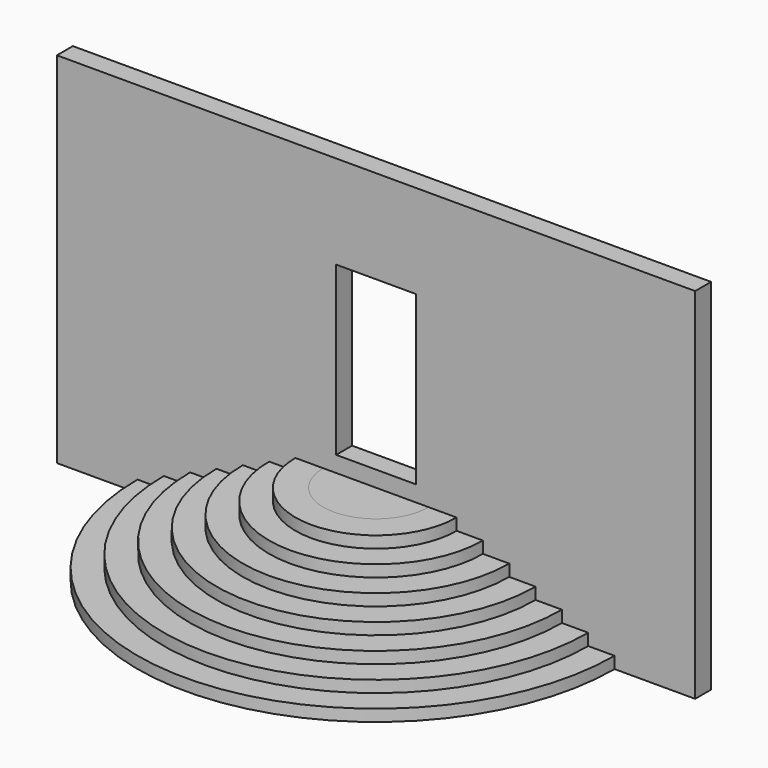
from build123d import *

# Parameters (mm, degrees)
F1_DEPTH  = 147
F3_DEPTH  = 147
F5_DEPTH  = 147
F7_DEPTH  = 147
F9_DEPTH  = 147
F11_DEPTH = 147
F13_DEPTH = 147
F15_DEPTH = 80
F16_W     = 8000
F16_H     = 4500
F16_W_2   = 1000
F16_H_2   = 2100
F17_DEPTH = 250


with BuildPart() as f1:
    # F0 (on Top) → F1 (new body)
    with BuildSketch(Plane.XY):
        with BuildLine():
            Line((-2640, 0), (-2990, 0))
            ThreePointArc((-2990, 0), (0, -2990), (2990, 0))
            Line((2990, 0), (2640, 0))
            ThreePointArc((2640, 0), (0, -2640), (-2640, 0))
        make_face()
    extrude(amount=F1_DEPTH)

    # F2 (on face) → F3 (join)
    with BuildSketch(Plane.XY.offset(147)):
        with BuildLine():
            Line((-2310, 0), (-2660, 0))
            ThreePointArc((-2660, 0), (0, -2660), (2660, 0))
            Line((2660, 0), (2310, 0))
            ThreePointArc((2310, 0), (0, -2310), (-2310, 0))
        make_face()
    extrude(amount=F3_DEPTH)

    # F4 (on face) → F5 (join)
    with BuildSketch(Plane.XY.offset(294)):
        with BuildLine():
            Line((-1980, 0), (-2330, 0))
            ThreePointArc((-2330, 0), (0, -2330), (2330, 0))
            Line((2330, 0), (1980, 0))
            ThreePointArc((1980, 0), (0, -1980), (-1980, 0))
        make_face()
    extrude(amount=F5_DEPTH)

    # F6 (on face) → F7 (join)
    with BuildSketch(Plane.XY.offset(441)):
        with BuildLine():
            Line((-1650, 0), (-2000, 0))
            ThreePointArc((-2000, 0), (0, -2000), (2000, 0))
            Line((2000, 0), (1650, 0))
            ThreePointArc((1650, 0), (0, -1650), (-1650, 0))
        make_face()
    extrude(amount=F7_DEPTH)

    # F8 (on face) → F9 (join)
    with BuildSketch(Plane.XY.offset(588)):
        with BuildLine():
            Line((-1320, 0), (-1670, 0))
            ThreePointArc((-1670, 0), (0, -1670), (1670, 0))
            Line((1670, 0), (1320, 0))
            ThreePointArc((1320, 0), (0, -1320), (-1320, 0))
        make_face()
    extrude(amount=F9_DEPTH)

    # F10 (on face) → F11 (join)
    with BuildSketch(Plane.XY.offset(735)):
        with BuildLine():
            Line((-990, 0), (-1340, 0))
            ThreePointArc((-1340, 0), (0, -1340), (1340, 0))
            Line((1340, 0), (990, 0))
            ThreePointArc((990, 0), (0, -990), (-990, 0))
        make_face()
    extrude(amount=F11_DEPTH)

    # F12 (on face) → F13 (join)
    with BuildSketch(Plane.XY.offset(882)):
        with BuildLine():
            Line((-660, 0), (-1010, 0))
            ThreePointArc((-1010, 0), (0, -1010), (1010, 0))
            Line((1010, 0), (660, 0))
            ThreePointArc((660, 0), (0, -660), (-660, 0))
        make_face()
    extrude(amount=F13_DEPTH)


with BuildPart() as f15:
    # F14 (on face) → F15 (new body)
    with BuildSketch(Plane.XY.offset(1029)):
        with BuildLine():
            Line((660, 0), (-660, 0))
            ThreePointArc((-660, 0), (0, -660), (660, 0))
        make_face()
    extrude(amount=-F15_DEPTH)


with BuildPart() as f17:
    # F16 (on Front) → F17 (new body)
    with BuildSketch(Plane.XZ):
        with Locations((0, 2250)):
            Rectangle(F16_W, F16_H)
        with Locations((0, 2279)):
            Rectangle(F16_W_2, F16_H_2, mode=Mode.SUBTRACT)
    extrude(amount=-F17_DEPTH)


solid = Compound([f1.part, f15.part, f17.part])
